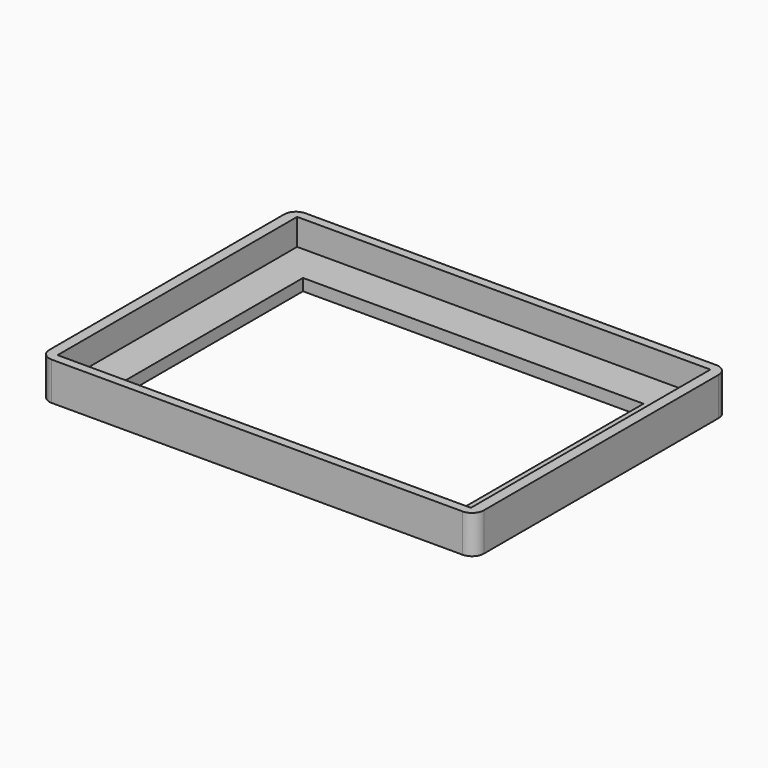
from build123d import *

# Parameters (mm, degrees)
BOX_W        = 70.4
BOX_H        = 51
BOX_DEPTH    = 6.5
BOX003_W     = 58
BOX003_H     = 38
BOX003_DEPTH = 10
BOX001_W     = 74
BOX001_H     = 54
BOX001_DEPTH = 6.5
FILLET002_R  = 2


with BuildPart() as internal_cube:
    # Box → Box (new body)
    with BuildSketch(Plane(origin=(1.8, 1.5, 2), x_dir=(1, 0, 0), z_dir=(0, 0, 1))):
        with Locations((35.2, 25.5)):
            Rectangle(BOX_W, BOX_H)
    extrude(amount=BOX_DEPTH)


with BuildPart() as extraction_fusion:
    # Box003 → Box003 (new body)
    with BuildSketch(Plane(origin=(8, 8, -5), x_dir=(1, 0, 0), z_dir=(0, 0, 1))):
        with Locations((29, 19)):
            Rectangle(BOX003_W, BOX003_H)
    extrude(amount=BOX003_DEPTH)

    # Fusion: union internal cube
    add(internal_cube.part)


with BuildPart() as main_cube_cut:
    # Box001 → Box001 (new body)
    with BuildSketch(Plane.XY):
        with Locations((37, 27)):
            Rectangle(BOX001_W, BOX001_H)
    extrude(amount=BOX001_DEPTH)

    # Fillet002
    fillet002_edges = [main_cube_cut.edges().sort_by_distance(p)[0] for p in [
        (0, 0, 3.25),
        (0, 54, 3.25),
        (74, 0, 3.25),
        (74, 54, 3.25),
    ]]
    fillet(fillet002_edges, radius=FILLET002_R)

    # Cut: cut extraction fusion
    add(extraction_fusion.part, mode=Mode.SUBTRACT)


solid = main_cube_cut.part
